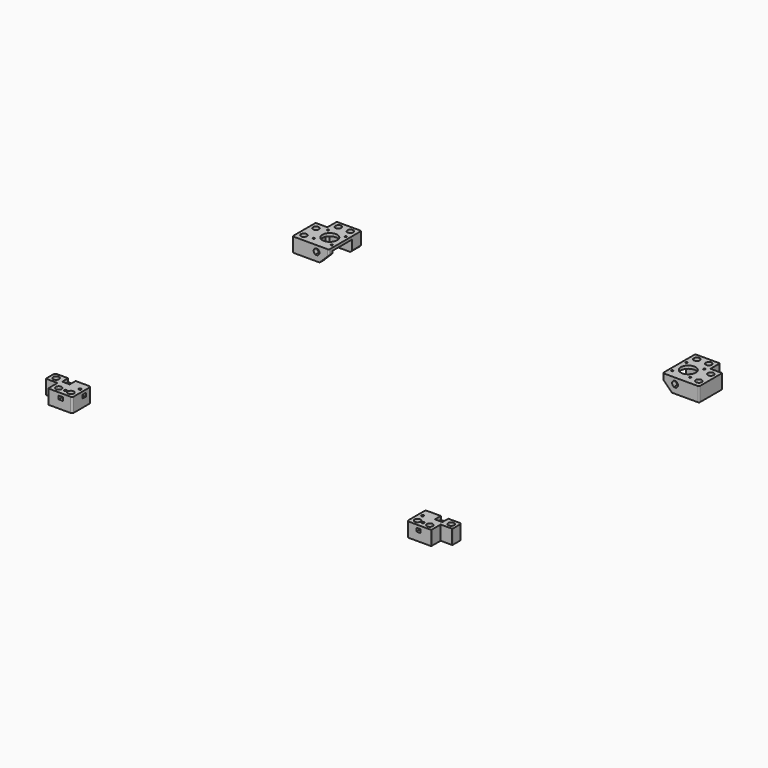
from build123d import *

# Parameters (mm, degrees)
EXTRUDE006_DEPTH                  = 10
EXTRUDE006_PLACEMENT_ANGLE        = 90
PRISM001_DEPTH                    = 0.3
PRISM001_PLACEMENT_ANGLE          = 30
PRISM_DEPTH                       = 0.3
SKETCH006_R                       = 2.7
EXTRUDE005_DEPTH                  = 25
SKETCH001_R                       = 5.2
EXTRUDE004_DEPTH                  = 6
SKETCH004_R                       = 13
SKETCH004_R_2                     = 1.65
EXTRUDE003_DEPTH                  = 5
BOX009_W                          = 43
BOX009_H                          = 42.3
BOX009_DEPTH                      = 20
CHAMFER001_SIZE                   = 4
BOX007_W                          = 20.5
BOX007_H                          = 20.5
BOX007_DEPTH                      = 25
BOX008_W                          = 63.5
BOX008_H                          = 71
BOX008_DEPTH                      = 25
CHAMFER002_1_SIZE                 = 16
CHAMFER002_2_SIZE                 = 3
FILLET001_1_R                     = 2
FILLET001_2_R                     = 1
FILLET001_PLACEMENT_ANGLE         = 180
EXTRUDE008_DEPTH                  = 10
EXTRUDE008_PLACEMENT_ANGLE        = 90
PRISM003_DEPTH                    = 0.3
PRISM003_PLACEMENT_ANGLE          = 30
PRISM002_DEPTH                    = 0.3
SKETCH009_R                       = 2.7
EXTRUDE010_DEPTH                  = 25
SKETCH008_R                       = 5.2
EXTRUDE009_DEPTH                  = 6
SKETCH007_R                       = 13
SKETCH007_R_2                     = 1.65
EXTRUDE007_DEPTH                  = 5
BOX010_W                          = 43
BOX010_H                          = 42.3
BOX010_DEPTH                      = 20
CHAMFER003_SIZE                   = 4
BOX011_W                          = 20.5
BOX011_H                          = 20.5
BOX011_DEPTH                      = 25
BOX012_W                          = 63.5
BOX012_H                          = 71
BOX012_DEPTH                      = 25
CHAMFER004_1_SIZE                 = 16
CHAMFER004_2_SIZE                 = 3
FILLET002_1_R                     = 2
FILLET002_2_R                     = 1
PART_MIRRORING_PLACEMENT_ANGLE    = 180
EXTRUDE012_DEPTH                  = 20
BOX020_W                          = 15
BOX020_H                          = 7.5
BOX020_DEPTH                      = 6
CYLINDER010_R                     = 2.1
CYLINDER010_DEPTH                 = 5
CYLINDER009_R                     = 1.05
CYLINDER009_DEPTH                 = 7
BOX018_W                          = 13
BOX018_H                          = 13
BOX018_DEPTH                      = 6
CYLINDER008_R                     = 2.65
CYLINDER008_DEPTH                 = 5
CYLINDER007_R                     = 5.2
CYLINDER007_DEPTH                 = 20
BOX021_W                          = 20.5
BOX021_H                          = 20.5
BOX021_DEPTH                      = 25
BOX022_W                          = 7.5
BOX022_H                          = 13
BOX022_DEPTH                      = 6
BOX019_W                          = 40.5
BOX019_H                          = 62.8
BOX019_DEPTH                      = 25
FILLET004_1_R                     = 3
FILLET004_2_R                     = 1
PART_MIRRORING001_PLACEMENT_ANGLE = 90
EXTRUDE011_DEPTH                  = 20
BOX013_W                          = 15
BOX013_H                          = 7.5
BOX013_DEPTH                      = 6
CYLINDER004_R                     = 2.1
CYLINDER004_DEPTH                 = 5
CYLINDER003_R                     = 1.05
CYLINDER003_DEPTH                 = 7
BOX014_W                          = 13
BOX014_H                          = 13
BOX014_DEPTH                      = 6
CYLINDER005_R                     = 2.65
CYLINDER005_DEPTH                 = 5
CYLINDER006_R                     = 5.2
CYLINDER006_DEPTH                 = 20
BOX015_W                          = 20.5
BOX015_H                          = 20.5
BOX015_DEPTH                      = 25
BOX016_W                          = 7.5
BOX016_H                          = 13
BOX016_DEPTH                      = 6
BOX017_W                          = 40.5
BOX017_H                          = 62.8
BOX017_DEPTH                      = 25
FILLET003_1_R                     = 3
FILLET003_2_R                     = 1
FILLET003_PLACEMENT_ANGLE         = 90


with BuildPart() as obj1:
    # Sketch005 → Extrude006 (new body)
    with BuildSketch(Plane.YZ):
        with BuildLine():
            ThreePointArc((-3.606261, 3.606229), (0, -5.1), (3.606261, 3.606229))
            Line((2.112489, 5.1), (3.606261, 3.606229))
            Line((-2.112489, 5.1), (2.112489, 5.1))
            Line((-3.606261, 3.606229), (-2.112489, 5.1))
        make_face()
    extrude(amount=EXTRUDE006_DEPTH)


with BuildPart() as obj1_1:
    # Extrude006 placement: moved
    add(obj1.part.moved(Location((42, 62, 10.2))).rotate(Axis((42, 62, 10.2), (0, 0, 1)), EXTRUDE006_PLACEMENT_ANGLE))


with BuildPart() as obj2:
    # Prism001 → Prism001 (new body)
    with BuildSketch(Plane.XY):
        Polygon((3.1, 0), (1.55, 2.684679), (-1.55, 2.684679), (-3.1, 0), (-1.55, -2.684679), (1.55, -2.684679), align=None)
    extrude(amount=PRISM001_DEPTH)


with BuildPart() as obj2_1:
    # Prism001 placement: moved
    add(obj2.part.moved(Location((10.25, 32.5, 6.3))).rotate(Axis((10.25, 32.5, 6.3), (0, 0, 1)), PRISM001_PLACEMENT_ANGLE))


with BuildPart() as soporte_circulos:
    # Prism → Prism (new body)
    with BuildSketch(Plane(origin=(10.25, 32.5, 6), x_dir=(1, 0, 0), z_dir=(0, 0, 1))):
        Polygon((5.3, 0), (-2.65, 4.589935), (-2.65, -4.589935), align=None)
    extrude(amount=PRISM_DEPTH)

    # Fusion007: union obj2
    add(obj2_1.part)


with BuildPart() as clone006:
    # Clone006 base: copy of soporte_circulos
    add(soporte_circulos.part)


with BuildPart() as clone006_1:
    # Clone006 placement: moved
    add(clone006.part.moved(Location((0, 26.3, 0))))


with BuildPart() as clone007:
    # Clone007 base: copy of soporte_circulos
    add(soporte_circulos.part)


with BuildPart() as clone007_1:
    # Clone007 placement: moved
    add(clone007.part.moved(Location((21.25, -22.25, 0))))


with BuildPart() as clone005:
    # Clone005 base: copy of Clone007
    add(clone007_1.part)


with BuildPart() as clone005_1:
    # Clone005 placement: moved
    add(clone005.part.moved(Location((21, 0, 0))))


with BuildPart() as huecos_soporte_taladros:
    # Fusion008 base: copy of soporte_circulos
    add(soporte_circulos.part)

    # Fusion008: union Clone006, Clone007, Clone005
    add(clone006_1.part)
    add(clone007_1.part)
    add(clone005_1.part)


with BuildPart() as obj3:
    # Sketch006 → Extrude005 (new body)
    with BuildSketch(Plane.XY):
        with Locations((31.5, 10.25)):
            Circle(SKETCH006_R)
        with Locations((52.5, 10.25)):
            Circle(SKETCH006_R)
        with Locations((10.25, 32.5)):
            Circle(SKETCH006_R)
        with Locations((10.25, 58.8)):
            Circle(SKETCH006_R)
    extrude(amount=EXTRUDE005_DEPTH)


with BuildPart() as fusion009:
    # Sketch001 → Extrude004 (new body)
    with BuildSketch(Plane.XY):
        with Locations((31.5, 10.25)):
            Circle(SKETCH001_R)
        with Locations((52.5, 10.25)):
            Circle(SKETCH001_R)
        with Locations((10.25, 32.5)):
            Circle(SKETCH001_R)
        with Locations((10.25, 58.8)):
            Circle(SKETCH001_R)
    extrude(amount=EXTRUDE004_DEPTH)

    # Fusion006: union obj3
    add(obj3.part)

    # Fusion009: union obj1, huecos_soporte_taladros
    add(obj1_1.part)
    add(huecos_soporte_taladros.part)


with BuildPart() as agujero_motor:
    # Sketch004 (on Face6 of Box009) → Extrude003 (new body)
    with BuildSketch(Plane(origin=(20.5, 20.5, 25), x_dir=(1, 0, 0), z_dir=(0, 0, 1))):
        with Locations((21.5, 21.5)):
            Circle(SKETCH004_R)
        with Locations((6, 37)):
            Circle(SKETCH004_R_2)
        with Locations((37, 37)):
            Circle(SKETCH004_R_2)
        with Locations((37, 6)):
            Circle(SKETCH004_R_2)
        with Locations((6, 6)):
            Circle(SKETCH004_R_2)
    extrude(amount=EXTRUDE003_DEPTH)


with BuildPart() as agujero_motor_1:
    # Extrude003 placement: moved
    add(agujero_motor.part.moved(Location((0, 0, -25))))


with BuildPart() as hueco_motor_total:
    # Box009 → Box009 (new body)
    with BuildSketch(Plane(origin=(20.5, 20.5, 5), x_dir=(1, 0, 0), z_dir=(0, 0, 1))):
        with Locations((21.5, 21.15)):
            Rectangle(BOX009_W, BOX009_H)
    extrude(amount=BOX009_DEPTH)

    # Chamfer001
    chamfer001_edges = [hueco_motor_total.edges().sort_by_distance(p)[0] for p in [
        (20.5, 20.5, 15),
        (20.5, 62.8, 15),
    ]]
    chamfer(chamfer001_edges, length=CHAMFER001_SIZE)

    # Fusion010: union agujero_motor
    add(agujero_motor_1.part)


with BuildPart() as obj4:
    # Box007 → Box007 (new body)
    with BuildSketch(Plane.XY):
        with Locations((10.25, 10.25)):
            Rectangle(BOX007_W, BOX007_H)
    extrude(amount=BOX007_DEPTH)


with BuildPart() as obj5:
    # Box008 → Box008 (new body)
    with BuildSketch(Plane.XY):
        with Locations((31.75, 35.5)):
            Rectangle(BOX008_W, BOX008_H)
    extrude(amount=BOX008_DEPTH)

    # Cut004: cut obj4
    add(obj4.part, mode=Mode.SUBTRACT)

    # Cut006: cut hueco_motor_total
    add(hueco_motor_total.part, mode=Mode.SUBTRACT)

    # Cut005: cut Fusion009
    add(fusion009.part, mode=Mode.SUBTRACT)

    # Chamfer002 1
    chamfer002_1_edges = [obj5.edges().sort_by_distance(p)[0] for p in [
        (63.5, 66.9, 25),
    ]]
    chamfer(chamfer002_1_edges, length=CHAMFER002_1_SIZE)

    # Chamfer002 2
    chamfer002_2_edges = [obj5.edges().sort_by_distance(p)[0] for p in [
        (63.5, 10.25, 25),
    ]]
    chamfer(chamfer002_2_edges, length=CHAMFER002_2_SIZE)

    # Fillet001 1
    fillet001_1_edges = [obj5.edges().sort_by_distance(p)[0] for p in [
        (63.5, 71, 4.5),
        (0, 71, 12.5),
        (63.5, 0, 11),
    ]]
    fillet(fillet001_1_edges, radius=FILLET001_1_R)

    # Fillet001 2
    fillet001_2_edges = [obj5.edges().sort_by_distance(p)[0] for p in [
        (0, 20.5, 12.5),
        (20.5, 0, 12.5),
    ]]
    fillet(fillet001_2_edges, radius=FILLET001_2_R)


with BuildPart() as obj5_1:
    # Fillet001 placement: moved
    add(obj5.part.moved(Location((0, 630, 635))).rotate(Axis((0, 630, 635), (1, 0, 0)), FILLET001_PLACEMENT_ANGLE))


with BuildPart() as obj6:
    # Sketch010 → Extrude008 (new body)
    with BuildSketch(Plane.YZ):
        with BuildLine():
            ThreePointArc((-3.606261, 3.606229), (0, -5.1), (3.606261, 3.606229))
            Line((2.112489, 5.1), (3.606261, 3.606229))
            Line((-2.112489, 5.1), (2.112489, 5.1))
            Line((-3.606261, 3.606229), (-2.112489, 5.1))
        make_face()
    extrude(amount=EXTRUDE008_DEPTH)


with BuildPart() as obj6_1:
    # Extrude008 placement: moved
    add(obj6.part.moved(Location((42, 62, 10.2))).rotate(Axis((42, 62, 10.2), (0, 0, 1)), EXTRUDE008_PLACEMENT_ANGLE))


with BuildPart() as obj7:
    # Prism003 → Prism003 (new body)
    with BuildSketch(Plane.XY):
        Polygon((3.1, 0), (1.55, 2.684679), (-1.55, 2.684679), (-3.1, 0), (-1.55, -2.684679), (1.55, -2.684679), align=None)
    extrude(amount=PRISM003_DEPTH)


with BuildPart() as obj7_1:
    # Prism003 placement: moved
    add(obj7.part.moved(Location((10.25, 32.5, 6.3))).rotate(Axis((10.25, 32.5, 6.3), (0, 0, 1)), PRISM003_PLACEMENT_ANGLE))


with BuildPart() as soporte_circulos001:
    # Prism002 → Prism002 (new body)
    with BuildSketch(Plane(origin=(10.25, 32.5, 6), x_dir=(1, 0, 0), z_dir=(0, 0, 1))):
        Polygon((5.3, 0), (-2.65, 4.589935), (-2.65, -4.589935), align=None)
    extrude(amount=PRISM002_DEPTH)

    # Fusion012: union obj7
    add(obj7_1.part)


with BuildPart() as clone009:
    # Clone009 base: copy of soporte_circulos001
    add(soporte_circulos001.part)


with BuildPart() as clone009_1:
    # Clone009 placement: moved
    add(clone009.part.moved(Location((0, 26.3, 0))))


with BuildPart() as clone008:
    # Clone008 base: copy of soporte_circulos001
    add(soporte_circulos001.part)


with BuildPart() as clone008_1:
    # Clone008 placement: moved
    add(clone008.part.moved(Location((21.25, -22.25, 0))))


with BuildPart() as clone010:
    # Clone010 base: copy of Clone008
    add(clone008_1.part)


with BuildPart() as clone010_1:
    # Clone010 placement: moved
    add(clone010.part.moved(Location((21, 0, 0))))


with BuildPart() as huecos_soporte_taladros001:
    # Fusion013 base: copy of soporte_circulos001
    add(soporte_circulos001.part)

    # Fusion013: union Clone009, Clone008, Clone010
    add(clone009_1.part)
    add(clone008_1.part)
    add(clone010_1.part)


with BuildPart() as obj8:
    # Sketch009 → Extrude010 (new body)
    with BuildSketch(Plane.XY):
        with Locations((31.5, 10.25)):
            Circle(SKETCH009_R)
        with Locations((52.5, 10.25)):
            Circle(SKETCH009_R)
        with Locations((10.25, 32.5)):
            Circle(SKETCH009_R)
        with Locations((10.25, 58.8)):
            Circle(SKETCH009_R)
    extrude(amount=EXTRUDE010_DEPTH)


with BuildPart() as fusion014:
    # Sketch008 → Extrude009 (new body)
    with BuildSketch(Plane.XY):
        with Locations((31.5, 10.25)):
            Circle(SKETCH008_R)
        with Locations((52.5, 10.25)):
            Circle(SKETCH008_R)
        with Locations((10.25, 32.5)):
            Circle(SKETCH008_R)
        with Locations((10.25, 58.8)):
            Circle(SKETCH008_R)
    extrude(amount=EXTRUDE009_DEPTH)

    # Fusion015: union obj8
    add(obj8.part)

    # Fusion014: union obj6, huecos_soporte_taladros001
    add(obj6_1.part)
    add(huecos_soporte_taladros001.part)


with BuildPart() as agujero_motor001:
    # Sketch007 (on Face6 of Box010) → Extrude007 (new body)
    with BuildSketch(Plane(origin=(20.5, 20.5, 25), x_dir=(1, 0, 0), z_dir=(0, 0, 1))):
        with Locations((21.5, 21.5)):
            Circle(SKETCH007_R)
        with Locations((6, 37)):
            Circle(SKETCH007_R_2)
        with Locations((37, 37)):
            Circle(SKETCH007_R_2)
        with Locations((37, 6)):
            Circle(SKETCH007_R_2)
        with Locations((6, 6)):
            Circle(SKETCH007_R_2)
    extrude(amount=EXTRUDE007_DEPTH)


with BuildPart() as agujero_motor001_1:
    # Extrude007 placement: moved
    add(agujero_motor001.part.moved(Location((0, 0, -25))))


with BuildPart() as hueco_motor_total001:
    # Box010 → Box010 (new body)
    with BuildSketch(Plane(origin=(20.5, 20.5, 5), x_dir=(1, 0, 0), z_dir=(0, 0, 1))):
        with Locations((21.5, 21.15)):
            Rectangle(BOX010_W, BOX010_H)
    extrude(amount=BOX010_DEPTH)

    # Chamfer003
    chamfer003_edges = [hueco_motor_total001.edges().sort_by_distance(p)[0] for p in [
        (20.5, 20.5, 15),
        (20.5, 62.8, 15),
    ]]
    chamfer(chamfer003_edges, length=CHAMFER003_SIZE)

    # Fusion011: union agujero_motor001
    add(agujero_motor001_1.part)


with BuildPart() as obj9:
    # Box011 → Box011 (new body)
    with BuildSketch(Plane.XY):
        with Locations((10.25, 10.25)):
            Rectangle(BOX011_W, BOX011_H)
    extrude(amount=BOX011_DEPTH)


with BuildPart() as obj10:
    # Box012 → Box012 (new body)
    with BuildSketch(Plane.XY):
        with Locations((31.75, 35.5)):
            Rectangle(BOX012_W, BOX012_H)
    extrude(amount=BOX012_DEPTH)

    # Cut008: cut obj9
    add(obj9.part, mode=Mode.SUBTRACT)

    # Cut007: cut hueco_motor_total001
    add(hueco_motor_total001.part, mode=Mode.SUBTRACT)

    # Cut009: cut Fusion014
    add(fusion014.part, mode=Mode.SUBTRACT)

    # Chamfer004 1
    chamfer004_1_edges = [obj10.edges().sort_by_distance(p)[0] for p in [
        (63.5, 66.9, 25),
    ]]
    chamfer(chamfer004_1_edges, length=CHAMFER004_1_SIZE)

    # Chamfer004 2
    chamfer004_2_edges = [obj10.edges().sort_by_distance(p)[0] for p in [
        (63.5, 10.25, 25),
    ]]
    chamfer(chamfer004_2_edges, length=CHAMFER004_2_SIZE)

    # Fillet002 1
    fillet002_1_edges = [obj10.edges().sort_by_distance(p)[0] for p in [
        (63.5, 71, 4.5),
        (0, 71, 12.5),
        (63.5, 0, 11),
    ]]
    fillet(fillet002_1_edges, radius=FILLET002_1_R)

    # Fillet002 2
    fillet002_2_edges = [obj10.edges().sort_by_distance(p)[0] for p in [
        (0, 20.5, 12.5),
        (20.5, 0, 12.5),
    ]]
    fillet(fillet002_2_edges, radius=FILLET002_2_R)


with BuildPart() as fusion019:
    # Part__Mirroring: instance of obj10
    add(obj10.part.mirror(Plane(origin=(0, 0, 0), x_dir=(1, 0, 0), z_dir=(0, 1, 0))))


with BuildPart() as fusion019_1:
    # Part__Mirroring placement: moved
    add(fusion019.part.moved(Location((710, 630, 635))).rotate(Axis((710, 630, 635), (0, 1, 0)), PART_MIRRORING_PLACEMENT_ANGLE))

    # Fusion019: union obj5
    add(obj5_1.part)


with BuildPart() as obj11:
    # Sketch012 → Extrude012 (new body)
    with BuildSketch(Plane.YZ):
        with BuildLine():
            ThreePointArc((-3.606243, 3.606246), (0, -5.1), (3.606243, 3.606246))
            Line((2.112489, 5.1), (3.606243, 3.606246))
            Line((-2.112489, 5.1), (2.112489, 5.1))
            Line((-3.606243, 3.606246), (-2.112489, 5.1))
        make_face()
    extrude(amount=EXTRUDE012_DEPTH)


with BuildPart() as obj11_1:
    # Extrude012 placement: moved
    add(obj11.part.moved(Location((20.5, 41.65, 15))))


with BuildPart() as hueco_taladro005:
    # Box020 → Box020 (new body)
    with BuildSketch(Plane(origin=(0, 39, 14), x_dir=(1, 0, 0), z_dir=(0, 0, 1))):
        with Locations((7.5, 3.75)):
            Rectangle(BOX020_W, BOX020_H)
    extrude(amount=BOX020_DEPTH)


with BuildPart() as taladro013:
    # Cylinder010 → Cylinder010 (new body)
    with BuildSketch(Plane(origin=(10, 42.7, 20), x_dir=(1, 0, 0), z_dir=(0, 0, 1))):
        Circle(CYLINDER010_R)
    extrude(amount=CYLINDER010_DEPTH)


with BuildPart() as clone019:
    # Clone019 base: copy of taladro013
    add(taladro013.part)


with BuildPart() as clone019_1:
    # Clone019 placement: moved
    add(clone019.part.moved(Location((15.5, 13.1, 0))))


with BuildPart() as taladro_endstop001:
    # Cylinder009 → Cylinder009 (new body)
    with BuildSketch(Plane(origin=(35.5, 26.14, 12), x_dir=(1, 0, 0), z_dir=(0, 0, 1))):
        Circle(CYLINDER009_R)
    extrude(amount=CYLINDER009_DEPTH)


with BuildPart() as clone022:
    # Clone022 base: copy of taladro_endstop001
    add(taladro_endstop001.part)


with BuildPart() as clone022_1:
    # Clone022 placement: moved
    add(clone022.part.moved(Location((0, 7, 0))))


with BuildPart() as hueco_endstop001:
    # Box018 → Box018 (new body)
    with BuildSketch(Plane(origin=(27.5, 23.14, 19), x_dir=(1, 0, 0), z_dir=(0, 0, 1))):
        with Locations((6.5, 6.5)):
            Rectangle(BOX018_W, BOX018_H)
    extrude(amount=BOX018_DEPTH)


with BuildPart() as taladro012:
    # Cylinder008 → Cylinder008 (new body)
    with BuildSketch(Plane(origin=(30.5, 10, 0), x_dir=(1, 0, 0), z_dir=(0, 0, 1))):
        Circle(CYLINDER008_R)
    extrude(amount=CYLINDER008_DEPTH)


with BuildPart() as clone021:
    # Clone021 base: copy of taladro012
    add(taladro012.part)


with BuildPart() as clone021_1:
    # Clone021 placement: moved
    add(clone021.part.moved(Location((-20.5, 21, 0))))


with BuildPart() as clone017:
    # Clone017 base: copy of Clone021
    add(clone021_1.part)


with BuildPart() as clone017_1:
    # Clone017 placement: moved
    add(clone017.part.moved(Location((0, 21.3, 0))))


with BuildPart() as taladro011:
    # Cylinder007 → Cylinder007 (new body)
    with BuildSketch(Plane(origin=(30.5, 10, 5), x_dir=(1, 0, 0), z_dir=(0, 0, 1))):
        Circle(CYLINDER007_R)
    extrude(amount=CYLINDER007_DEPTH)


with BuildPart() as clone018:
    # Clone018 base: copy of taladro011
    add(taladro011.part)


with BuildPart() as clone018_1:
    # Clone018 placement: moved
    add(clone018.part.moved(Location((-20.5, 21, 0))))


with BuildPart() as clone020:
    # Clone020 base: copy of Clone018
    add(clone018_1.part)


with BuildPart() as clone020_1:
    # Clone020 placement: moved
    add(clone020.part.moved(Location((0, 21.3, 0))))


with BuildPart() as obj12:
    # Box021 → Box021 (new body)
    with BuildSketch(Plane.XY):
        with Locations((10.25, 10.25)):
            Rectangle(BOX021_W, BOX021_H)
    extrude(amount=BOX021_DEPTH)


with BuildPart() as huecos001:
    # Box022 → Box022 (new body)
    with BuildSketch(Plane(origin=(21.75, 49.8, 14), x_dir=(1, 0, 0), z_dir=(0, 0, 1))):
        with Locations((3.75, 6.5)):
            Rectangle(BOX022_W, BOX022_H)
    extrude(amount=BOX022_DEPTH)

    # Fusion017: union hueco_taladro005, Clone019, taladro013, Clone022, taladro_endstop001, hueco_endstop001, Clone017, Clone021, taladro012, Clone020, Clone018, taladro011, obj12
    add(hueco_taladro005.part)
    add(clone019_1.part)
    add(taladro013.part)
    add(clone022_1.part)
    add(taladro_endstop001.part)
    add(hueco_endstop001.part)
    add(clone017_1.part)
    add(clone021_1.part)
    add(taladro012.part)
    add(clone020_1.part)
    add(clone018_1.part)
    add(taladro011.part)
    add(obj12.part)


with BuildPart() as obj13:
    # Box019 → Box019 (new body)
    with BuildSketch(Plane.XY):
        with Locations((20.25, 31.4)):
            Rectangle(BOX019_W, BOX019_H)
    extrude(amount=BOX019_DEPTH)

    # Cut012: cut huecos001
    add(huecos001.part, mode=Mode.SUBTRACT)

    # Cut013: cut obj11
    add(obj11_1.part, mode=Mode.SUBTRACT)

    # Fillet004 1
    fillet004_1_edges = [obj13.edges().sort_by_distance(p)[0] for p in [
        (0, 62.8, 12.5),
        (40.5, 62.8, 12.5),
        (40.5, 0, 12.5),
    ]]
    fillet(fillet004_1_edges, radius=FILLET004_1_R)

    # Fillet004 2
    fillet004_2_edges = [obj13.edges().sort_by_distance(p)[0] for p in [
        (0, 20.5, 12.5),
        (20.5, 0, 12.5),
    ]]
    fillet(fillet004_2_edges, radius=FILLET004_2_R)


with BuildPart() as obj14:
    # Part__Mirroring001: instance of obj13
    add(obj13.part.mirror(Plane(origin=(0, 0, 0), x_dir=(1, 0, 0), z_dir=(0, 1, 0))))


with BuildPart() as obj14_1:
    # Part__Mirroring001 placement: moved
    add(obj14.part.moved(Location((0, 0, 610))).rotate(Axis((0, 0, 610), (0, 0, 1)), PART_MIRRORING001_PLACEMENT_ANGLE))


with BuildPart() as obj15:
    # Sketch011 → Extrude011 (new body)
    with BuildSketch(Plane.YZ):
        with BuildLine():
            ThreePointArc((-3.606243, 3.606246), (0, -5.1), (3.606243, 3.606246))
            Line((2.112489, 5.1), (3.606243, 3.606246))
            Line((-2.112489, 5.1), (2.112489, 5.1))
            Line((-3.606243, 3.606246), (-2.112489, 5.1))
        make_face()
    extrude(amount=EXTRUDE011_DEPTH)


with BuildPart() as obj15_1:
    # Extrude011 placement: moved
    add(obj15.part.moved(Location((20.5, 41.65, 15))))


with BuildPart() as hueco_taladro4:
    # Box013 → Box013 (new body)
    with BuildSketch(Plane(origin=(0, 39, 14), x_dir=(1, 0, 0), z_dir=(0, 0, 1))):
        with Locations((7.5, 3.75)):
            Rectangle(BOX013_W, BOX013_H)
    extrude(amount=BOX013_DEPTH)


with BuildPart() as taladro4:
    # Cylinder004 → Cylinder004 (new body)
    with BuildSketch(Plane(origin=(10, 42.7, 20), x_dir=(1, 0, 0), z_dir=(0, 0, 1))):
        Circle(CYLINDER004_R)
    extrude(amount=CYLINDER004_DEPTH)


with BuildPart() as clone012:
    # Clone012 base: copy of taladro4
    add(taladro4.part)


with BuildPart() as clone012_1:
    # Clone012 placement: moved
    add(clone012.part.moved(Location((15.5, 13.1, 0))))


with BuildPart() as taladro_endstop:
    # Cylinder003 → Cylinder003 (new body)
    with BuildSketch(Plane(origin=(35.5, 26.14, 12), x_dir=(1, 0, 0), z_dir=(0, 0, 1))):
        Circle(CYLINDER003_R)
    extrude(amount=CYLINDER003_DEPTH)


with BuildPart() as clone011:
    # Clone011 base: copy of taladro_endstop
    add(taladro_endstop.part)


with BuildPart() as clone011_1:
    # Clone011 placement: moved
    add(clone011.part.moved(Location((0, 7, 0))))


with BuildPart() as hueco_endstop:
    # Box014 → Box014 (new body)
    with BuildSketch(Plane(origin=(27.5, 23.14, 19), x_dir=(1, 0, 0), z_dir=(0, 0, 1))):
        with Locations((6.5, 6.5)):
            Rectangle(BOX014_W, BOX014_H)
    extrude(amount=BOX014_DEPTH)


with BuildPart() as taladro5:
    # Cylinder005 → Cylinder005 (new body)
    with BuildSketch(Plane(origin=(30.5, 10, 0), x_dir=(1, 0, 0), z_dir=(0, 0, 1))):
        Circle(CYLINDER005_R)
    extrude(amount=CYLINDER005_DEPTH)


with BuildPart() as clone014:
    # Clone014 base: copy of taladro5
    add(taladro5.part)


with BuildPart() as clone014_1:
    # Clone014 placement: moved
    add(clone014.part.moved(Location((-20.5, 21, 0))))


with BuildPart() as clone016:
    # Clone016 base: copy of Clone014
    add(clone014_1.part)


with BuildPart() as clone016_1:
    # Clone016 placement: moved
    add(clone016.part.moved(Location((0, 21.3, 0))))


with BuildPart() as taladro10:
    # Cylinder006 → Cylinder006 (new body)
    with BuildSketch(Plane(origin=(30.5, 10, 5), x_dir=(1, 0, 0), z_dir=(0, 0, 1))):
        Circle(CYLINDER006_R)
    extrude(amount=CYLINDER006_DEPTH)


with BuildPart() as clone015:
    # Clone015 base: copy of taladro10
    add(taladro10.part)


with BuildPart() as clone015_1:
    # Clone015 placement: moved
    add(clone015.part.moved(Location((-20.5, 21, 0))))


with BuildPart() as clone013:
    # Clone013 base: copy of Clone015
    add(clone015_1.part)


with BuildPart() as clone013_1:
    # Clone013 placement: moved
    add(clone013.part.moved(Location((0, 21.3, 0))))


with BuildPart() as obj16:
    # Box015 → Box015 (new body)
    with BuildSketch(Plane.XY):
        with Locations((10.25, 10.25)):
            Rectangle(BOX015_W, BOX015_H)
    extrude(amount=BOX015_DEPTH)


with BuildPart() as huecos:
    # Box016 → Box016 (new body)
    with BuildSketch(Plane(origin=(21.75, 49.8, 14), x_dir=(1, 0, 0), z_dir=(0, 0, 1))):
        with Locations((3.75, 6.5)):
            Rectangle(BOX016_W, BOX016_H)
    extrude(amount=BOX016_DEPTH)

    # Fusion016: union hueco_taladro4, Clone012, taladro4, Clone011, taladro_endstop, hueco_endstop, Clone016, Clone014, taladro5, Clone013, Clone015, taladro10, obj16
    add(hueco_taladro4.part)
    add(clone012_1.part)
    add(taladro4.part)
    add(clone011_1.part)
    add(taladro_endstop.part)
    add(hueco_endstop.part)
    add(clone016_1.part)
    add(clone014_1.part)
    add(taladro5.part)
    add(clone013_1.part)
    add(clone015_1.part)
    add(taladro10.part)
    add(obj16.part)


with BuildPart() as obj17:
    # Box017 → Box017 (new body)
    with BuildSketch(Plane.XY):
        with Locations((20.25, 31.4)):
            Rectangle(BOX017_W, BOX017_H)
    extrude(amount=BOX017_DEPTH)

    # Cut011: cut huecos
    add(huecos.part, mode=Mode.SUBTRACT)

    # Cut010: cut obj15
    add(obj15_1.part, mode=Mode.SUBTRACT)

    # Fillet003 1
    fillet003_1_edges = [obj17.edges().sort_by_distance(p)[0] for p in [
        (0, 62.8, 12.5),
        (40.5, 62.8, 12.5),
        (40.5, 0, 12.5),
    ]]
    fillet(fillet003_1_edges, radius=FILLET003_1_R)

    # Fillet003 2
    fillet003_2_edges = [obj17.edges().sort_by_distance(p)[0] for p in [
        (0, 20.5, 12.5),
        (20.5, 0, 12.5),
    ]]
    fillet(fillet003_2_edges, radius=FILLET003_2_R)


with BuildPart() as obj17_1:
    # Fillet003 placement: moved
    add(obj17.part.moved(Location((710, 0, 610))).rotate(Axis((710, 0, 610), (0, 0, 1)), FILLET003_PLACEMENT_ANGLE))

    # Fusion018: union obj14
    add(obj14_1.part)

    # Fusion020: union Fusion019
    add(fusion019_1.part)


solid = obj17_1.part
